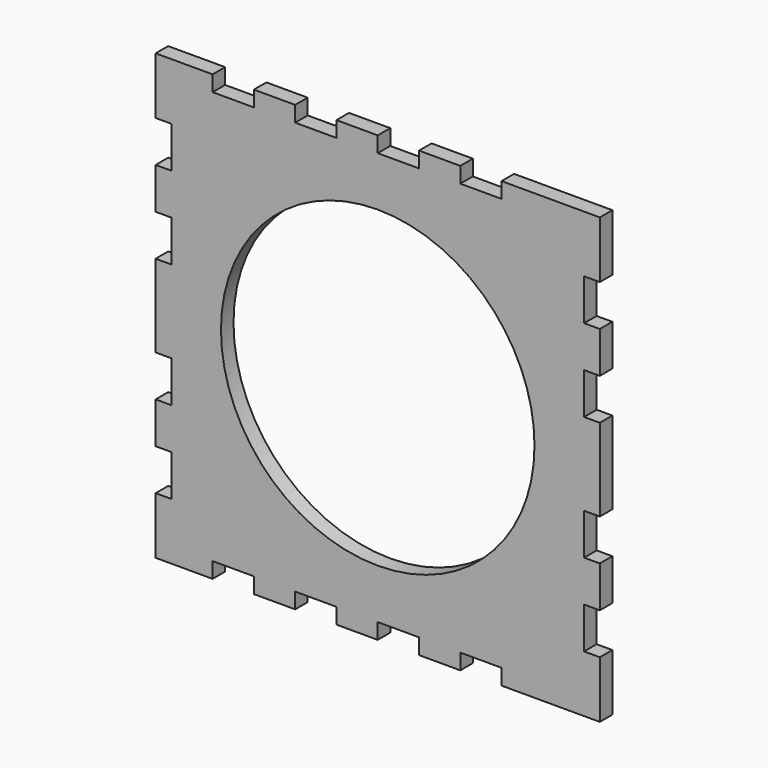
from build123d import *

# Parameters (mm, degrees)
F1_DEPTH = 3


with BuildPart() as f1:
    # F0 (on Front) → F1 (new body)
    with BuildSketch(Plane.XZ):
        Polygon((-42.5, -31.6), (-42.5, -42.5), (-31.6, -42.5), (-31.6, -39.5), (-23.7, -39.5), (-23.7, -42.5), (-15.8, -42.5), (-15.8, -39.5), (-7.9, -39.5), (-7.9, -42.5), (0, -42.5), (0, -39.5), (7.9, -39.5), (7.9, -42.5), (15.8, -42.5), (15.8, -39.5), (23.7, -39.5), (23.7, -42.5), (42.5, -42.5), (42.5, -31.6), (39.5, -31.6), (39.5, -23.7), (42.5, -23.7), (42.5, -15.8), (39.5, -15.8), (39.5, -7.9), (42.5, -7.9), (42.5, 0), (42.5, 7.9), (39.5, 7.9), (39.5, 15.8), (42.5, 15.8), (42.5, 23.7), (39.5, 23.7), (39.5, 31.6), (42.5, 31.6), (42.5, 42.5), (23.7, 42.5), (23.7, 39.5), (15.8, 39.5), (15.8, 42.5), (7.9, 42.5), (7.9, 39.5), (0, 39.5), (0, 42.5), (-7.9, 42.5), (-7.9, 39.5), (-15.8, 39.5), (-15.8, 42.5), (-23.7, 42.5), (-23.7, 39.5), (-31.6, 39.5), (-31.6, 42.5), (-42.5, 42.5), (-42.5, 31.6), (-39.5, 31.6), (-39.5, 23.7), (-42.5, 23.7), (-42.5, 15.8), (-39.5, 15.8), (-39.5, 7.9), (-42.5, 7.9), (-42.5, 0), (-42.5, -7.9), (-39.5, -7.9), (-39.5, -15.8), (-42.5, -15.8), (-42.5, -23.7), (-39.5, -23.7), (-39.5, -31.6), align=None)
        with BuildLine():
            ThreePointArc((0, -30), (-30, 0), (0, 30))
            ThreePointArc((0, 30), (30, 0), (0, -30))
        make_face(mode=Mode.SUBTRACT)
    extrude(amount=F1_DEPTH)


solid = f1.part
